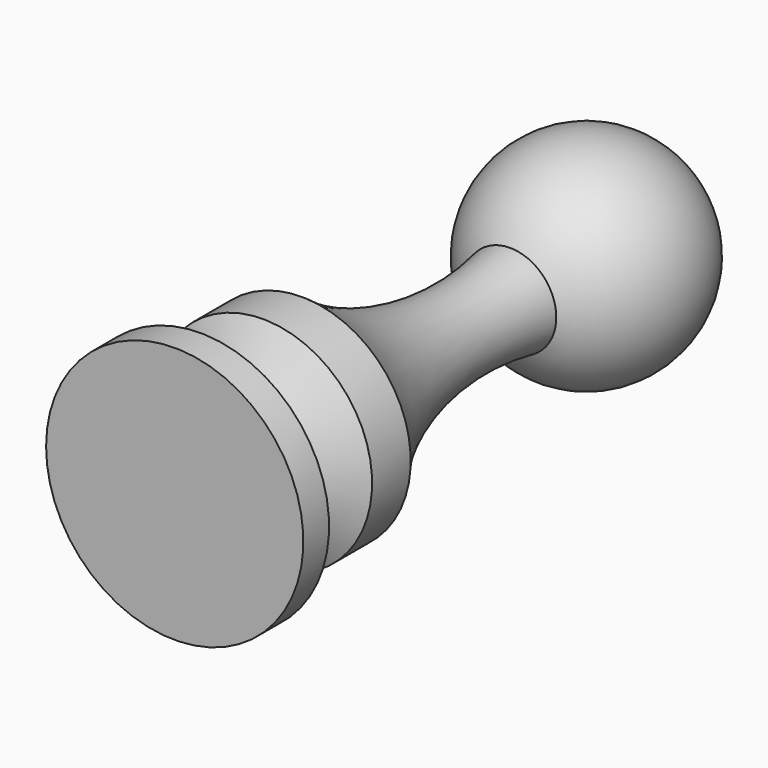
from build123d import *


with BuildPart() as f1:
    # F0 (on Top) → F1 (revolve)
    with BuildSketch(Plane.XY):
        with BuildLine():
            Line((-2.874578, 26.07), (0, 26.07))
            Line((0, 26.07), (0, 32))
            Line((0, 32), (0, 38.59))
            ThreePointArc((0, 38.59), (-6.422881, 33.474686), (-2.874578, 26.07))
        make_face()
        with BuildLine():
            Line((-8, 0), (0, 0))
            Line((0, 0), (0, 26.07))
            Line((0, 26.07), (-2.874578, 26.07))
            ThreePointArc((-2.874578, 26.07), (-3.059702, 17.543878), (-6.78, 9.87))
            Line((-6.78, 9.87), (-6.78, 6.87))
            Line((-6.78, 6.87), (-3.998394, 5.14))
            Line((-3.998394, 5.14), (-8, 2))
            Line((-8, 2), (-8, 0))
        make_face()
    revolve(axis=Axis((0, 19.295, 0), (0, 1, 0)))


solid = f1.part
